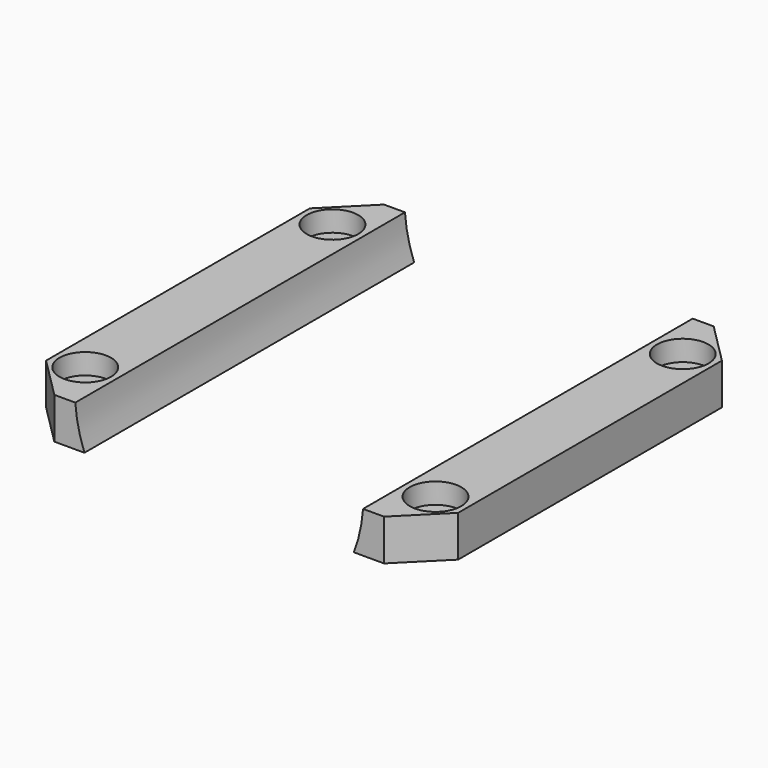
from build123d import *

# Parameters (mm, degrees)
CYLINDER1821_R     = 2.5
CYLINDER1821_DEPTH = 3
CYLINDER1820_R     = 2.5
CYLINDER1820_DEPTH = 3
CYLINDER1822_R     = 2.5
CYLINDER1822_DEPTH = 3
CYLINDER1823_R     = 2.5
CYLINDER1823_DEPTH = 3
CYLINDER1824_R     = 1.25
CYLINDER1824_DEPTH = 20
CYLINDER1819_R     = 1.25
CYLINDER1819_DEPTH = 20
CYLINDER1825_R     = 1.25
CYLINDER1825_DEPTH = 20
CYLINDER1826_R     = 1.25
CYLINDER1826_DEPTH = 20
CYLINDER1827_R     = 14
CYLINDER1827_DEPTH = 40
BOX717_W           = 40
BOX717_H           = 40
BOX717_DEPTH       = 4
CHAMFER058_SIZE    = 4


with BuildPart() as obj1:
    # Cylinder1821 → Cylinder1821 (new body)
    with BuildSketch(Plane(origin=(58, -19, 26), x_dir=(1, 0, 0), z_dir=(0, 0, 1))):
        Circle(CYLINDER1821_R)
    extrude(amount=CYLINDER1821_DEPTH)


with BuildPart() as compound899:
    # Cylinder1820 → Cylinder1820 (new body)
    with BuildSketch(Plane(origin=(58, 11, 26), x_dir=(1, 0, 0), z_dir=(0, 0, 1))):
        Circle(CYLINDER1820_R)
    extrude(amount=CYLINDER1820_DEPTH)

    # Compound899: union obj1
    add(obj1.part)


with BuildPart() as compound899_1:
    # Compound899 placement: moved
    add(compound899.part.moved(Location((34, 0, 13))))


with BuildPart() as obj2:
    # Cylinder1822 → Cylinder1822 (new body)
    with BuildSketch(Plane(origin=(58, -19, 26), x_dir=(1, 0, 0), z_dir=(0, 0, 1))):
        Circle(CYLINDER1822_R)
    extrude(amount=CYLINDER1822_DEPTH)


with BuildPart() as compound908:
    # Cylinder1823 → Cylinder1823 (new body)
    with BuildSketch(Plane(origin=(58, 11, 26), x_dir=(1, 0, 0), z_dir=(0, 0, 1))):
        Circle(CYLINDER1823_R)
    extrude(amount=CYLINDER1823_DEPTH)

    # Compound909: union obj2
    add(obj2.part)


with BuildPart() as compound908_1:
    # Compound909 placement: moved
    add(compound908.part.moved(Location((0, 0, 13))))

    # Compound908: union Compound899
    add(compound899_1.part)


with BuildPart() as obj3:
    # Cylinder1824 → Cylinder1824 (new body)
    with BuildSketch(Plane(origin=(58, -19, 26), x_dir=(1, 0, 0), z_dir=(0, 0, 1))):
        Circle(CYLINDER1824_R)
    extrude(amount=CYLINDER1824_DEPTH)


with BuildPart() as compound898:
    # Cylinder1819 → Cylinder1819 (new body)
    with BuildSketch(Plane(origin=(58, 11, 26), x_dir=(1, 0, 0), z_dir=(0, 0, 1))):
        Circle(CYLINDER1819_R)
    extrude(amount=CYLINDER1819_DEPTH)

    # Compound898: union obj3
    add(obj3.part)


with BuildPart() as compound898_1:
    # Compound898 placement: moved
    add(compound898.part.moved(Location((34, 0, 0))))


with BuildPart() as obj4:
    # Cylinder1825 → Cylinder1825 (new body)
    with BuildSketch(Plane(origin=(58, -19, 26), x_dir=(1, 0, 0), z_dir=(0, 0, 1))):
        Circle(CYLINDER1825_R)
    extrude(amount=CYLINDER1825_DEPTH)


with BuildPart() as compound906:
    # Cylinder1826 → Cylinder1826 (new body)
    with BuildSketch(Plane(origin=(58, 11, 26), x_dir=(1, 0, 0), z_dir=(0, 0, 1))):
        Circle(CYLINDER1826_R)
    extrude(amount=CYLINDER1826_DEPTH)

    # Compound907: union obj4
    add(obj4.part)

    # Compound906: union Compound898
    add(compound898_1.part)


with BuildPart() as obj5:
    # Cylinder1827 → Cylinder1827 (new body)
    with BuildSketch(Plane(origin=(75, 16, 42), x_dir=(1, 0, 0), z_dir=(0, -1, 0))):
        Circle(CYLINDER1827_R)
    extrude(amount=CYLINDER1827_DEPTH)


with BuildPart() as chamfer058:
    # Box717 → Box717 (new body)
    with BuildSketch(Plane(origin=(55, -24, 37), x_dir=(1, 0, 0), z_dir=(0, 0, 1))):
        with Locations((20, 20)):
            Rectangle(BOX717_W, BOX717_H)
    extrude(amount=BOX717_DEPTH)

    # Cut538: cut obj5
    add(obj5.part, mode=Mode.SUBTRACT)

    # Cut539: cut Compound906
    add(compound906.part, mode=Mode.SUBTRACT)

    # Cut540: cut Compound908
    add(compound908_1.part, mode=Mode.SUBTRACT)

    # Chamfer058
    chamfer058_edges = [chamfer058.edges().sort_by_distance(p)[0] for p in [
        (55, -24, 39),
        (55, 16, 39),
        (95, -24, 39),
        (95, 16, 39),
    ]]
    chamfer(chamfer058_edges, length=CHAMFER058_SIZE)


solid = chamfer058.part
